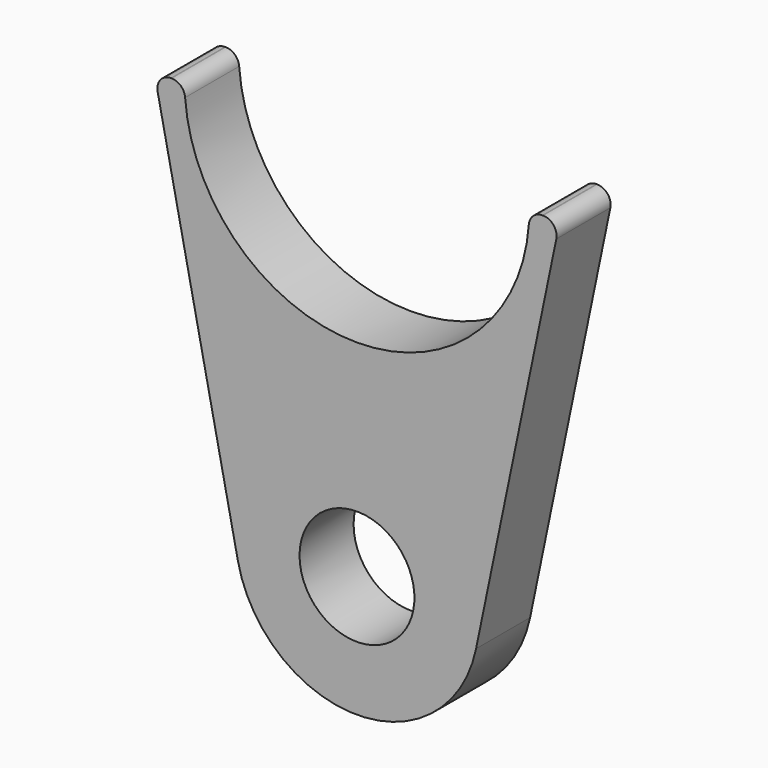
from build123d import *

# Parameters (mm, degrees)
F1_DEPTH = 5
F3_D     = 8.5
F4_R     = 1


with BuildPart() as f1:
    # F0 (on Front) → F1 (new body)
    with BuildSketch(Plane.XZ):
        with BuildLine():
            Line((-15, 0), (-8.812388, -29.828065))
            ThreePointArc((-8.812388, -29.828065), (0, -37), (8.812388, -29.828065))
            Line((8.812388, -29.828065), (15, 0))
            Line((15, 0), (12.75, 0))
            ThreePointArc((12.75, 0), (0, -12.75), (-12.75, 0))
            Line((-12.75, 0), (-15, 0))
        make_face()
    extrude(amount=F1_DEPTH)

    # F3 (through all)
    with Locations(Plane.XZ.offset(5)):
        with Locations((0, -28)):
            Hole(F3_D / 2)

    # F4
    f4_edges = [f1.edges().sort_by_distance(p)[0] for p in [
        (15, -2.5, 0),
        (-15, -2.5, 0),
        (-12.75, -2.5, 0),
        (12.75, -2.5, 0),
    ]]
    fillet(f4_edges, radius=F4_R)


solid = f1.part
